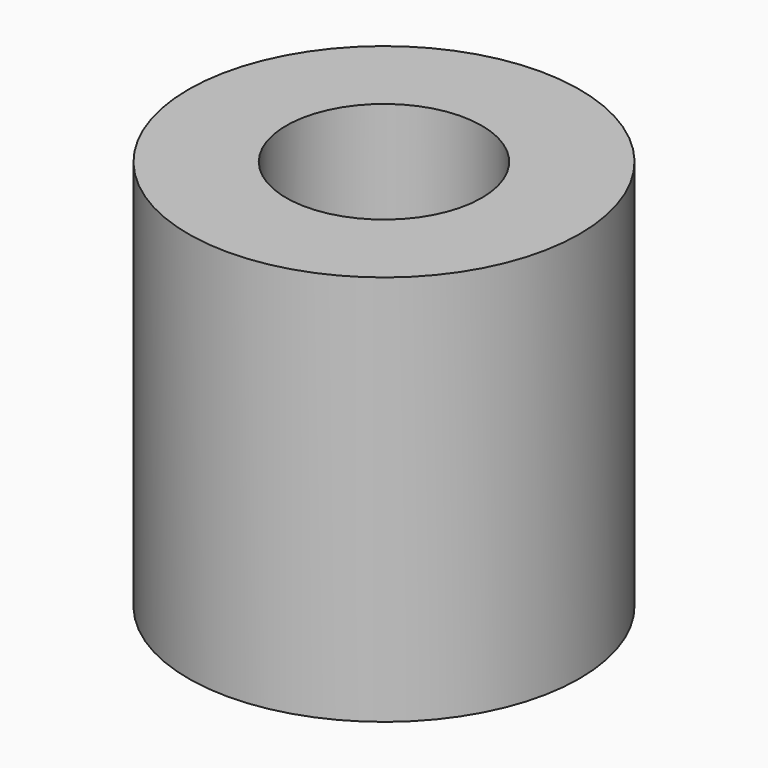
from build123d import *

# Parameters (mm, degrees)
SKETCH_R   = 5
SKETCH_R_2 = 2.5
PAD_DEPTH  = 10


with BuildPart() as part:
    # Sketch → Pad (new body)
    with BuildSketch(Plane.XY):
        Circle(SKETCH_R)
        Circle(SKETCH_R_2, mode=Mode.SUBTRACT)
    extrude(amount=PAD_DEPTH)


solid = part.part
